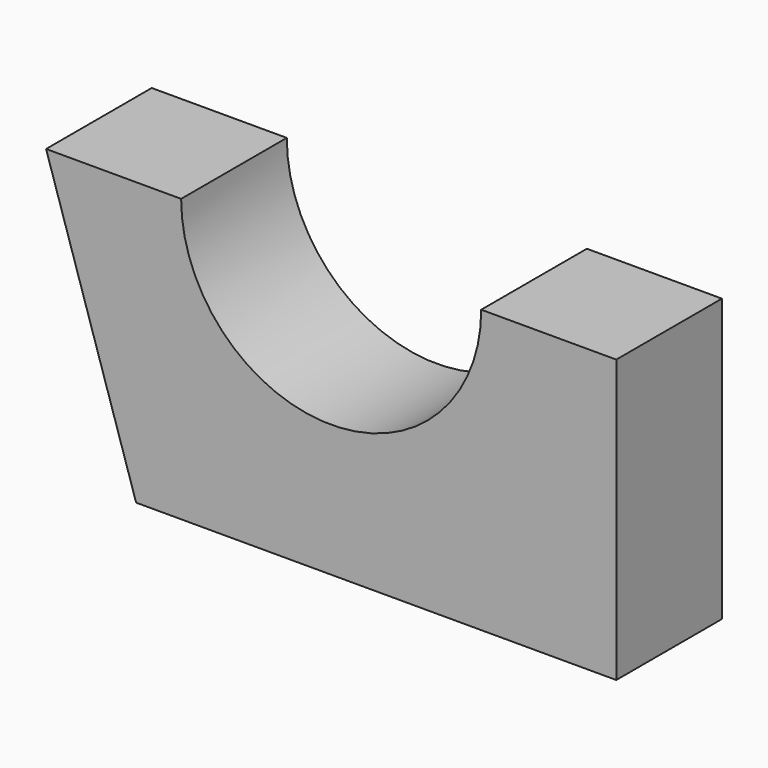
from build123d import *

# Parameters (mm, degrees)
F1_DEPTH = 44
F3_DEPTH = 44.001


with BuildPart() as f1:
    # F0 (on Front) → F1 (new body)
    with BuildSketch(Plane.XZ):
        with BuildLine():
            Line((-95, 94), (-95, 0))
            Line((-95, 0), (95, 0))
            Line((95, 0), (95, 94))
            Line((95, 94), (50, 94))
            ThreePointArc((50, 94), (0, 44), (-50, 94))
            Line((-50, 94), (-95, 94))
        make_face()
    extrude(amount=F1_DEPTH)

    # F2 (on face) → F3 (cut, through all)
    with BuildSketch(Plane.XZ.offset(44)):
        Polygon((-65, 0), (-95, 94), (-95, 0), align=None)
    extrude(amount=-F3_DEPTH, mode=Mode.SUBTRACT)


solid = f1.part
